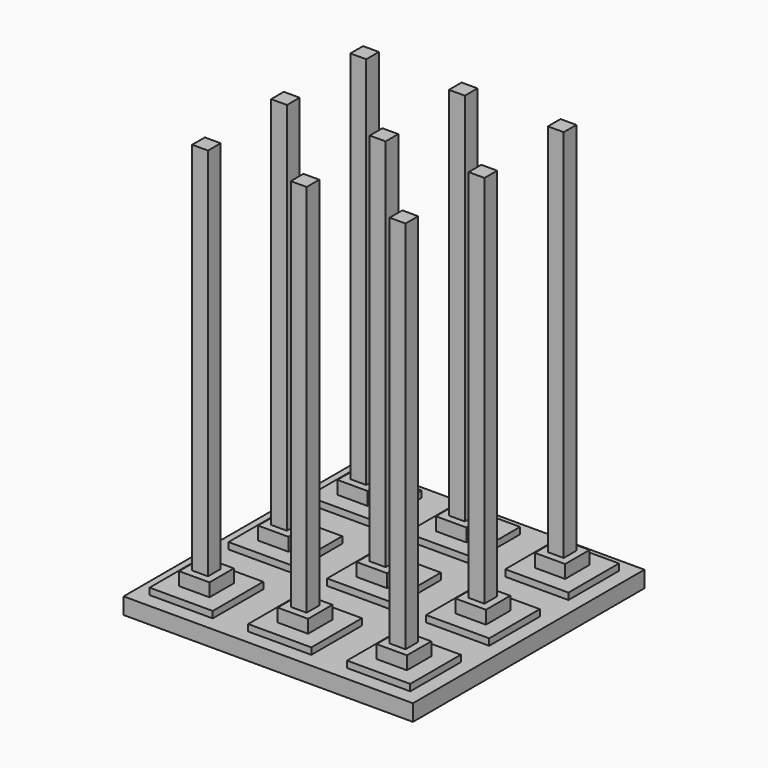
from build123d import *

# Parameters (mm, degrees)
F0_W          = 24.403951
F0_H          = 24.403952
F0_W_2        = 11.744402
F0_H_2        = 11.744402
F0_H_3        = 24.403951
F0_W_3        = 11.706546
F0_H_4        = 11.72305
F0_W_4        = 24.403952
F0_W_5        = 11.767878
F0_H_5        = 11.744401
F1_DEPTH      = 2.54
F1_DEPTH_BACK = 6.35
F0_W_6        = 111.76
F0_H_6        = 111.76
F2_DEPTH      = 6.35
F0_W_7        = 6.1214
F0_H_7        = 6.1214
F0_W_8        = 6.123828
F3_DEPTH      = 7.62
F3_DEPTH_BACK = 6.35
F4_DEPTH      = 152.4
F4_DEPTH_BACK = 6.35


with BuildPart() as f1:
    # F0 (on Top) → F1 (new body, two sides)
    with BuildSketch(Plane.XY) as f1_sk:
        with Locations((-38.082406, 0)):
            Rectangle(F0_W, F0_H)
        with Locations((-38.082406, 0)):
            Rectangle(F0_W_2, F0_H_2, mode=Mode.SUBTRACT)
        with Locations((-38.082406, 38.254515)):
            Rectangle(F0_W, F0_H_3)
        with Locations((-38.082406, 38.254516)):
            Rectangle(F0_W_3, F0_H_4, mode=Mode.SUBTRACT)
        with Locations((0, 38.254515)):
            Rectangle(F0_W_4, F0_H_3)
        with Locations((0, 38.254516)):
            Rectangle(F0_W_5, F0_H_4, mode=Mode.SUBTRACT)
        with Locations((38.197209, 38.254515)):
            Rectangle(F0_W_4, F0_H_3)
        with Locations((38.197209, 38.254515)):
            Rectangle(F0_W_2, F0_H_5, mode=Mode.SUBTRACT)
        with Locations((38.197209, 0)):
            Rectangle(F0_W_4, F0_H)
        with Locations((38.197209, 0)):
            Rectangle(F0_W_2, F0_H_2, mode=Mode.SUBTRACT)
        with Locations((38.197209, -38.131174)):
            Rectangle(F0_W_4, F0_H_3)
        with Locations((38.197209, -38.131174)):
            Rectangle(F0_W_2, F0_H_2, mode=Mode.SUBTRACT)
        with Locations((0, -38.131174)):
            Rectangle(F0_W_4, F0_H_3)
        with Locations((0, -38.131174)):
            Rectangle(F0_W_2, F0_H_2, mode=Mode.SUBTRACT)
        with Locations((-38.082406, -38.131174)):
            Rectangle(F0_W, F0_H_3)
        with Locations((-38.082406, -38.131174)):
            Rectangle(F0_W_2, F0_H_2, mode=Mode.SUBTRACT)
        Rectangle(F0_W_4, F0_H)
        Rectangle(F0_W_2, F0_H_2, mode=Mode.SUBTRACT)
    extrude(amount=F1_DEPTH)
    extrude(f1_sk.sketch, amount=-F1_DEPTH_BACK)


with BuildPart() as f2:
    # F0 (on Top) → F2 (new body)
    with BuildSketch(Plane.XY):
        Rectangle(F0_W_6, F0_H_6)
        with Locations((-38.082406, -38.131174)):
            Rectangle(F0_W, F0_H_3, mode=Mode.SUBTRACT)
        with Locations((-38.082406, 0)):
            Rectangle(F0_W, F0_H, mode=Mode.SUBTRACT)
        Rectangle(F0_W_4, F0_H, mode=Mode.SUBTRACT)
        with Locations((0, -38.131174)):
            Rectangle(F0_W_4, F0_H_3, mode=Mode.SUBTRACT)
        with Locations((38.197209, -38.131174)):
            Rectangle(F0_W_4, F0_H_3, mode=Mode.SUBTRACT)
        with Locations((38.197209, 0)):
            Rectangle(F0_W_4, F0_H, mode=Mode.SUBTRACT)
        with Locations((-38.082406, 38.254515)):
            Rectangle(F0_W, F0_H_3, mode=Mode.SUBTRACT)
        with Locations((0, 38.254515)):
            Rectangle(F0_W_4, F0_H_3, mode=Mode.SUBTRACT)
        with Locations((38.197209, 38.254515)):
            Rectangle(F0_W_4, F0_H_3, mode=Mode.SUBTRACT)
    extrude(amount=-F2_DEPTH)


with BuildPart() as f3:
    # F0 (on Top) → F3 (new body, two sides)
    with BuildSketch(Plane.XY) as f3_sk:
        with Locations((-38.082406, 38.254516)):
            Rectangle(F0_W_3, F0_H_4)
        with Locations((-38.082406, 38.254516)):
            Rectangle(F0_W_7, F0_H_7, mode=Mode.SUBTRACT)
        with Locations((0, 38.254516)):
            Rectangle(F0_W_5, F0_H_4)
        with Locations((0, 38.254516)):
            Rectangle(F0_W_8, F0_H_7, mode=Mode.SUBTRACT)
        with Locations((38.197209, 38.254515)):
            Rectangle(F0_W_2, F0_H_5)
        with Locations((38.197209, 38.254516)):
            Rectangle(F0_W_7, F0_H_7, mode=Mode.SUBTRACT)
        with Locations((38.197209, 0)):
            Rectangle(F0_W_2, F0_H_2)
        with Locations((38.197209, 0)):
            Rectangle(F0_W_7, F0_H_7, mode=Mode.SUBTRACT)
        Rectangle(F0_W_2, F0_H_2)
        Rectangle(F0_W_7, F0_H_7, mode=Mode.SUBTRACT)
        with Locations((-38.082406, 0)):
            Rectangle(F0_W_2, F0_H_2)
        with Locations((-38.082406, 0)):
            Rectangle(F0_W_7, F0_H_7, mode=Mode.SUBTRACT)
        with Locations((-38.082406, -38.131174)):
            Rectangle(F0_W_2, F0_H_2)
        with Locations((-38.082406, -38.131174)):
            Rectangle(F0_W_7, F0_H_7, mode=Mode.SUBTRACT)
        with Locations((0, -38.131174)):
            Rectangle(F0_W_2, F0_H_2)
        with Locations((0, -38.131174)):
            Rectangle(F0_W_7, F0_H_7, mode=Mode.SUBTRACT)
        with Locations((38.197209, -38.131174)):
            Rectangle(F0_W_2, F0_H_2)
        with Locations((38.197209, -38.131174)):
            Rectangle(F0_W_7, F0_H_7, mode=Mode.SUBTRACT)
    extrude(amount=F3_DEPTH)
    extrude(f3_sk.sketch, amount=-F3_DEPTH_BACK)


with BuildPart() as f4:
    # F0 (on Top) → F4 (new body, two sides)
    with BuildSketch(Plane.XY) as f4_sk:
        with Locations((-38.082406, 0)):
            Rectangle(F0_W_7, F0_H_7)
        with Locations((-38.082406, 38.254516)):
            Rectangle(F0_W_7, F0_H_7)
        with Locations((0, 38.254516)):
            Rectangle(F0_W_8, F0_H_7)
        with Locations((38.197209, 38.254516)):
            Rectangle(F0_W_7, F0_H_7)
        with Locations((38.197209, 0)):
            Rectangle(F0_W_7, F0_H_7)
        Rectangle(F0_W_7, F0_H_7)
        with Locations((0, -38.131174)):
            Rectangle(F0_W_7, F0_H_7)
        with Locations((38.197209, -38.131174)):
            Rectangle(F0_W_7, F0_H_7)
        with Locations((-38.082406, -38.131174)):
            Rectangle(F0_W_7, F0_H_7)
    extrude(amount=F4_DEPTH)
    extrude(f4_sk.sketch, amount=-F4_DEPTH_BACK)


solid = Compound([f1.part, f2.part, f3.part, f4.part])
